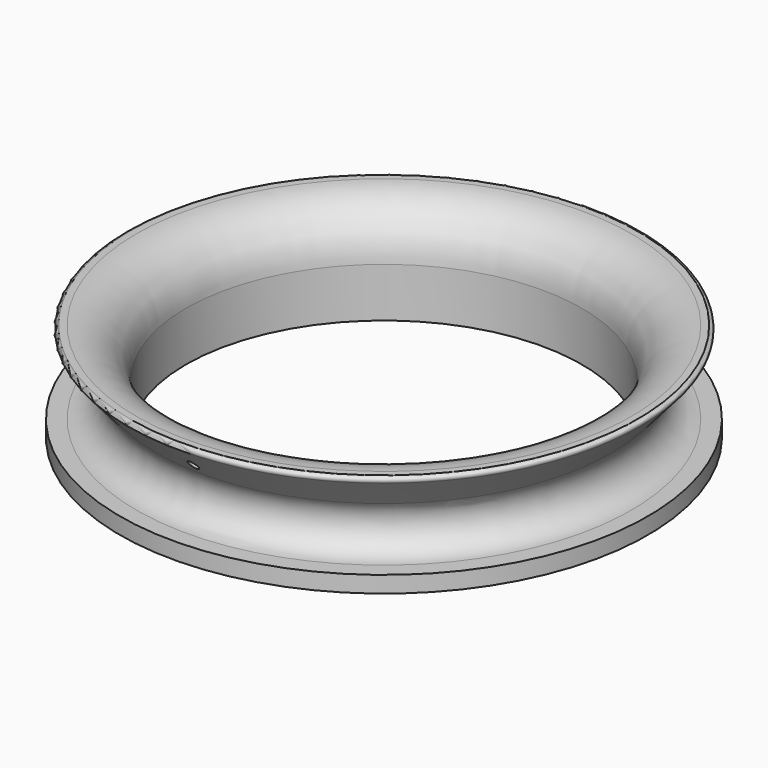
from build123d import *

# Parameters (mm, degrees)
F3_R     = 1.5
F4_DEPTH = 80.001


with BuildPart() as f2:
    # F0 (on Front) → F2 (revolve)
    with BuildSketch(Plane.XZ):
        with BuildLine():
            Line((-80, 5), (-80, 0))
            Line((-80, 0), (-60, 0))
            Line((-60, 0), (-60, 15))
            ThreePointArc((-60, 15), (-64.393398, 25.606602), (-75, 30))
            Line((-75, 30), (-77, 30))
            ThreePointArc((-77, 30), (-77.947917, 29.318518), (-77.603858, 28.202908))
            Line((-77.603858, 28.202908), (-69, 18.291503))
            ThreePointArc((-69, 18.291503), (-67.708497, 9.708497), (-75, 5))
            Line((-75, 5), (-80, 5))
        make_face()
    revolve(axis=Axis((0, 0, 28.539639), (0, 0, 1)))

    # F3 (on Front) → F4 (cut, through all)
    with BuildSketch(Plane.XZ):
        with Locations((0, 22)):
            Circle(F3_R)
    extrude(amount=F4_DEPTH, mode=Mode.SUBTRACT)


solid = f2.part
